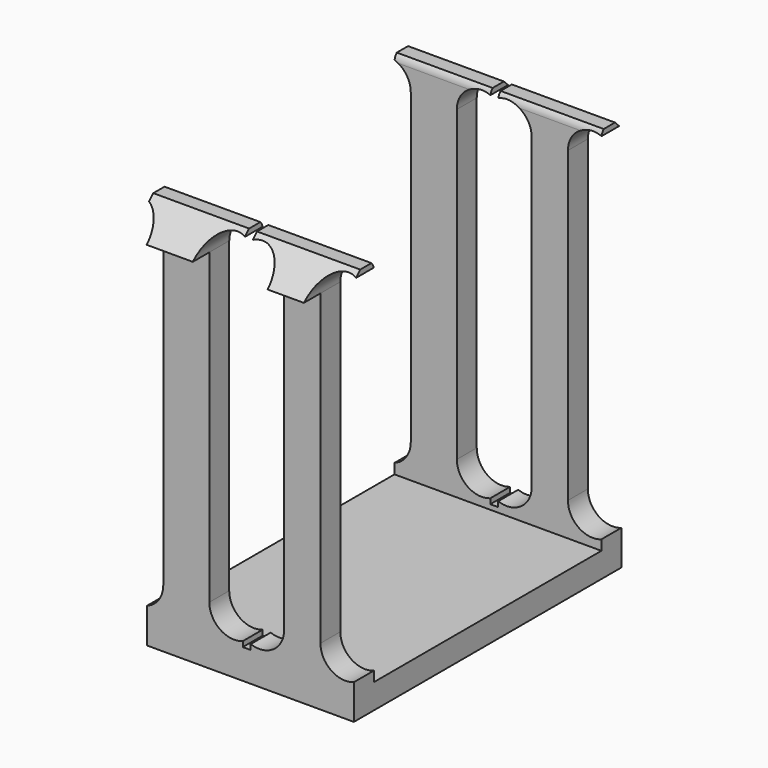
from build123d import *

# Parameters (mm, degrees)
F1_DEPTH = 191.008
F3_DEPTH = 45.3146


with BuildPart() as f1:
    # F0 (on Right) → F1 (new body)
    with BuildSketch(Plane.YZ):
        with BuildLine():
            ThreePointArc((2.168026, 50.428026), (0.783992, 50.703327), (0, 49.53))
            Line((0, 49.53), (2.168026, 50.428026))
        make_face()
        Polygon((2.168026, 50.428026), (0, 49.53), (0, 3.175), (-18.161, 3.175), (-18.161, 0), (3.175, 0), (3.175, 46.779451), (5.8166, 46.779451), align=None)
        Polygon((-18.161, 0), (-18.161, 3.175), (-36.322, 3.175), (-36.322, 49.53), (-38.490026, 50.428026), (-42.1386, 46.779451), (-39.497, 46.779451), (-39.497, 0), align=None)
        with BuildLine():
            Line((-38.490026, 50.428026), (-36.322, 49.53))
            ThreePointArc((-36.322, 49.53), (-37.105992, 50.703327), (-38.490026, 50.428026))
        make_face()
    extrude(amount=F1_DEPTH)

    # F2 (on face) → F3 (intersect, through all)
    with BuildSketch(Plane(origin=(0, 3.175, 0), x_dir=(-1, 0, 0), z_dir=(0, 1, 0))):
        with BuildLine():
            Line((-26.416, 0), (0, 0))
            Line((0, 0), (0, 4.465561))
            ThreePointArc((0, 4.465561), (-1.508444, 5.628635), (-2.079805, 7.44569))
            Line((-2.079805, 7.44569), (-2.079805, 46.779451))
            ThreePointArc((-2.079805, 46.779451), (-1.508444, 48.596507), (0, 49.759581))
            Line((0, 49.759581), (0, 50.428026))
            Line((0, 50.428026), (-12.231331, 50.428026))
            Line((-12.231331, 50.428026), (-12.231331, 49.759581))
            ThreePointArc((-12.231331, 49.759581), (-9.31908, 49.38309), (-7.961135, 46.779451))
            Line((-7.961135, 46.779451), (-7.961135, 7.44569))
            ThreePointArc((-7.961135, 7.44569), (-9.31908, 4.842052), (-12.231331, 4.465561))
            Line((-12.231331, 4.465561), (-12.231331, 3.797116))
            Line((-12.231331, 3.797116), (-13.247331, 3.797116))
            Line((-13.247331, 3.797116), (-13.247331, 4.465561))
            ThreePointArc((-13.247331, 4.465561), (-16.159581, 4.842052), (-17.517526, 7.44569))
            Line((-17.517526, 7.44569), (-17.517526, 46.779451))
            ThreePointArc((-17.517526, 46.779451), (-16.159581, 49.38309), (-13.247331, 49.759581))
            Line((-13.247331, 49.759581), (-13.247331, 50.428026))
            Line((-13.247331, 50.428026), (-26.416, 50.428026))
            Line((-26.416, 50.428026), (-26.416, 49.759581))
            ThreePointArc((-26.416, 49.759581), (-23.503749, 49.38309), (-22.145805, 46.779451))
            Line((-22.145805, 46.779451), (-22.145805, 7.44569))
            ThreePointArc((-22.145805, 7.44569), (-23.503749, 4.842052), (-26.416, 4.465561))
            Line((-26.416, 4.465561), (-26.416, 0))
        make_face()
    extrude(amount=-F3_DEPTH, mode=Mode.INTERSECT)


solid = f1.part
